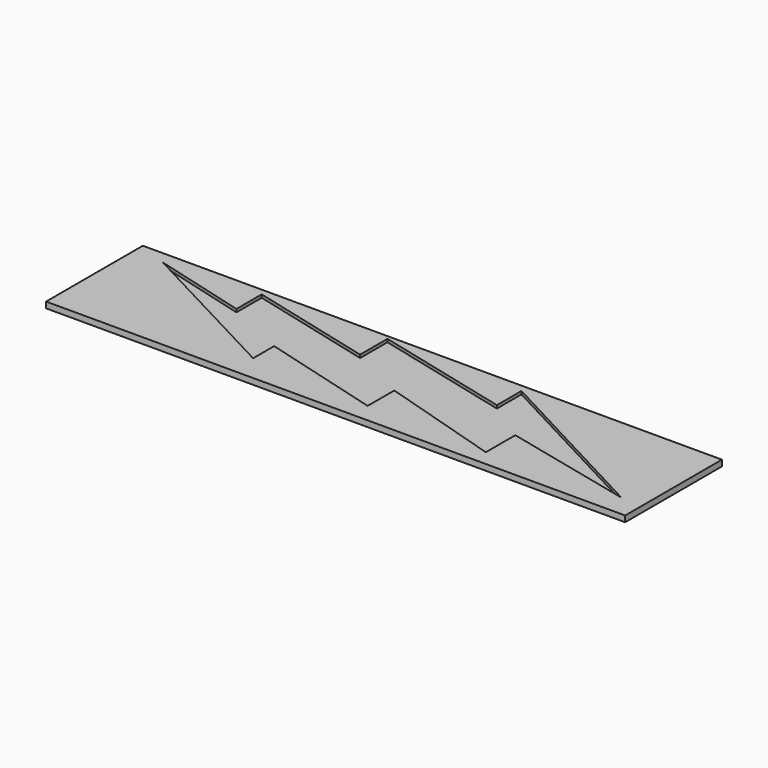
from build123d import *

# Parameters (mm, degrees)
F0_W     = 193
F0_H     = 40.3
F1_DEPTH = 2
F3_DEPTH = 1


with BuildPart() as f1:
    # F0 (on Top) → F1 (new body)
    with BuildSketch(Plane.XY):
        with Locations((1.831396, -32.759346)):
            Rectangle(F0_W, F0_H)
    extrude(amount=F1_DEPTH)

    # F2 (on face) → F3 (cut)
    with BuildSketch(Plane.XY.offset(2)):
        Polygon((-53.375542, -25.216417), (-84.645547, -16.741371), (-32.626286, -44.212215), (-32.626286, -35.444923), (7.411011, -46.550158), (7.411011, -35.444923), (47.740549, -47.719132), (47.740549, -35.444923), (91.284759, -45.67343), (33.420641, -14.987911), (33.420641, -25.216417), (-12.169273, -13.818938), (-12.169273, -25.216417), (-53.375542, -14.695669), align=None)
    extrude(amount=-F3_DEPTH, mode=Mode.SUBTRACT)


solid = f1.part
